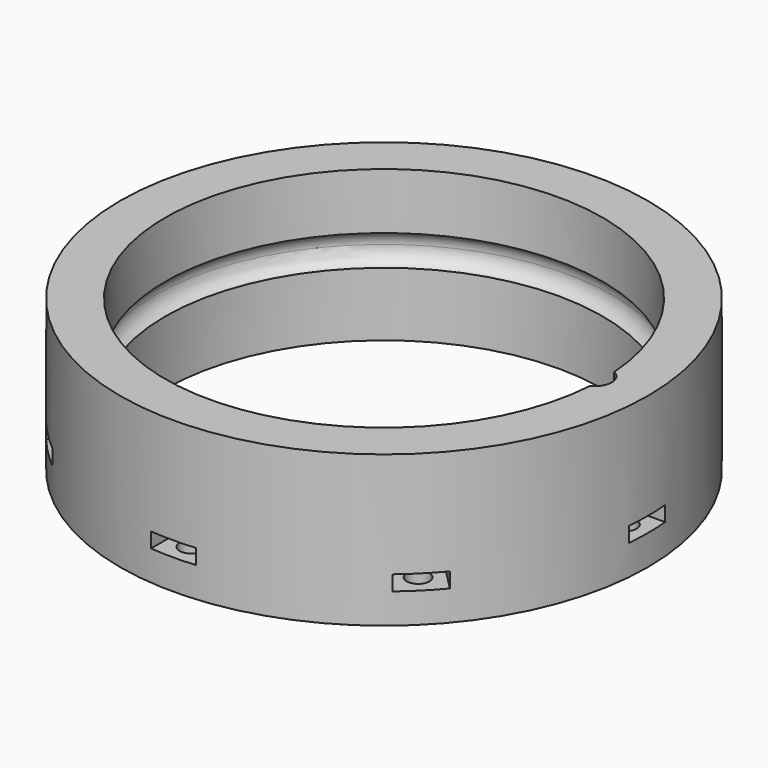
from build123d import *

# Parameters (mm, degrees)
BOX771_W                     = 6
BOX771_H                     = 6
BOX771_DEPTH                 = 2
BOX772_W                     = 6
BOX772_H                     = 6
BOX772_DEPTH                 = 2
BOX772_PLACEMENT_ANGLE       = 135
BOX769_W                     = 6
BOX769_H                     = 6
BOX769_DEPTH                 = 2
BOX767_W                     = 6
BOX767_H                     = 6
BOX767_DEPTH                 = 2
BOX767_PLACEMENT_ANGLE       = 225
BOX770_W                     = 6
BOX770_H                     = 6
BOX770_DEPTH                 = 2
BOX768_W                     = 6
BOX768_H                     = 6
BOX768_DEPTH                 = 2
BOX768_PLACEMENT_ANGLE       = 45
BOX773_W                     = 6
BOX773_H                     = 6
BOX773_DEPTH                 = 2
BOX765_W                     = 6
BOX765_H                     = 6
BOX765_DEPTH                 = 2
BOX765_PLACEMENT_ANGLE       = 45
CYLINDER1989_R               = 1.5
CYLINDER1989_DEPTH           = 10
CYLINDER1977_R               = 1.5
CYLINDER1977_DEPTH           = 10
CYLINDER1977_PLACEMENT_ANGLE = 135
CYLINDER1975_R               = 1.5
CYLINDER1975_DEPTH           = 10
CYLINDER1974_R               = 1.5
CYLINDER1974_DEPTH           = 10
CYLINDER1974_PLACEMENT_ANGLE = 225
CYLINDER1982_R               = 1.5
CYLINDER1982_DEPTH           = 10
CYLINDER1972_R               = 1.5
CYLINDER1972_DEPTH           = 10
CYLINDER1972_PLACEMENT_ANGLE = 45
CYLINDER1979_R               = 1.5
CYLINDER1979_DEPTH           = 10
CYLINDER1984_R               = 1.5
CYLINDER1984_DEPTH           = 10
CYLINDER1984_PLACEMENT_ANGLE = 45
CYLINDER1980_R               = 2.2
CYLINDER1980_DEPTH           = 10
TORUS004_R                   = 2.2
TUBE104_R                    = 35
TUBE104_R_2                  = 29
TUBE104_DEPTH                = 20


with BuildPart() as krychle771:
    # Box771 → Box771 (new body)
    with BuildSketch(Plane(origin=(-29, -3, 14), x_dir=(0, 1, 0), z_dir=(0, 0, 1))):
        with Locations((3, 3)):
            Rectangle(BOX771_W, BOX771_H)
    extrude(amount=BOX771_DEPTH)


with BuildPart() as krychle772:
    # Box772 → Box772 (new body)
    with BuildSketch(Plane.XY):
        with Locations((3, 3)):
            Rectangle(BOX772_W, BOX772_H)
    extrude(amount=BOX772_DEPTH)


with BuildPart() as krychle772_1:
    # Box772 placement: moved
    add(krychle772.part.moved(Location((-18.384776, -22.627417, 14))).rotate(Axis((-18.384776, -22.627417, 14), (0, 0, 1)), BOX772_PLACEMENT_ANGLE))


with BuildPart() as krychle769:
    # Box769 → Box769 (new body)
    with BuildSketch(Plane(origin=(3, -29, 14), x_dir=(-1, 0, 0), z_dir=(0, 0, 1))):
        with Locations((3, 3)):
            Rectangle(BOX769_W, BOX769_H)
    extrude(amount=BOX769_DEPTH)


with BuildPart() as krychle767:
    # Box767 → Box767 (new body)
    with BuildSketch(Plane.XY):
        with Locations((3, 3)):
            Rectangle(BOX767_W, BOX767_H)
    extrude(amount=BOX767_DEPTH)


with BuildPart() as krychle767_1:
    # Box767 placement: moved
    add(krychle767.part.moved(Location((22.627417, -18.384776, 14))).rotate(Axis((22.627417, -18.384776, 14), (0, 0, 1)), BOX767_PLACEMENT_ANGLE))


with BuildPart() as krychle770:
    # Box770 → Box770 (new body)
    with BuildSketch(Plane(origin=(29, 3, 14), x_dir=(0, -1, 0), z_dir=(0, 0, 1))):
        with Locations((3, 3)):
            Rectangle(BOX770_W, BOX770_H)
    extrude(amount=BOX770_DEPTH)


with BuildPart() as krychle768:
    # Box768 → Box768 (new body)
    with BuildSketch(Plane.XY):
        with Locations((3, 3)):
            Rectangle(BOX768_W, BOX768_H)
    extrude(amount=BOX768_DEPTH)


with BuildPart() as krychle768_1:
    # Box768 placement: moved
    add(krychle768.part.moved(Location((18.384776, 22.627417, 14))).rotate(Axis((18.384776, 22.627417, 14), (0, 0, -1)), BOX768_PLACEMENT_ANGLE))


with BuildPart() as krychle773:
    # Box773 → Box773 (new body)
    with BuildSketch(Plane(origin=(-3, 29, 14), x_dir=(1, 0, 0), z_dir=(0, 0, 1))):
        with Locations((3, 3)):
            Rectangle(BOX773_W, BOX773_H)
    extrude(amount=BOX773_DEPTH)


with BuildPart() as compound936:
    # Box765 → Box765 (new body)
    with BuildSketch(Plane.XY):
        with Locations((3, 3)):
            Rectangle(BOX765_W, BOX765_H)
    extrude(amount=BOX765_DEPTH)


with BuildPart() as compound936_1:
    # Box765 placement: moved
    add(compound936.part.moved(Location((-22.627417, 18.384776, 14))).rotate(Axis((-22.627417, 18.384776, 14), (0, 0, 1)), BOX765_PLACEMENT_ANGLE))

    # Compound936: union Krychle771, Krychle772, Krychle769, Krychle767, Krychle770, Krychle768, Krychle773
    add(krychle771.part)
    add(krychle772_1.part)
    add(krychle769.part)
    add(krychle767_1.part)
    add(krychle770.part)
    add(krychle768_1.part)
    add(krychle773.part)


with BuildPart() as obj1:
    # Cylinder1989 → Cylinder1989 (new body)
    with BuildSketch(Plane(origin=(-32, 0, 10), x_dir=(0, 1, 0), z_dir=(0, 0, 1))):
        Circle(CYLINDER1989_R)
    extrude(amount=CYLINDER1989_DEPTH)


with BuildPart() as obj2:
    # Cylinder1977 → Cylinder1977 (new body)
    with BuildSketch(Plane.XY):
        Circle(CYLINDER1977_R)
    extrude(amount=CYLINDER1977_DEPTH)


with BuildPart() as obj2_1:
    # Cylinder1977 placement: moved
    add(obj2.part.moved(Location((-22.627417, -22.627417, 10))).rotate(Axis((-22.627417, -22.627417, 10), (0, 0, 1)), CYLINDER1977_PLACEMENT_ANGLE))


with BuildPart() as obj3:
    # Cylinder1975 → Cylinder1975 (new body)
    with BuildSketch(Plane(origin=(0, -32, 10), x_dir=(-1, 0, 0), z_dir=(0, 0, 1))):
        Circle(CYLINDER1975_R)
    extrude(amount=CYLINDER1975_DEPTH)


with BuildPart() as obj4:
    # Cylinder1974 → Cylinder1974 (new body)
    with BuildSketch(Plane.XY):
        Circle(CYLINDER1974_R)
    extrude(amount=CYLINDER1974_DEPTH)


with BuildPart() as obj4_1:
    # Cylinder1974 placement: moved
    add(obj4.part.moved(Location((22.627417, -22.627417, 10))).rotate(Axis((22.627417, -22.627417, 10), (0, 0, 1)), CYLINDER1974_PLACEMENT_ANGLE))


with BuildPart() as obj5:
    # Cylinder1982 → Cylinder1982 (new body)
    with BuildSketch(Plane(origin=(32, 0, 10), x_dir=(0, -1, 0), z_dir=(0, 0, 1))):
        Circle(CYLINDER1982_R)
    extrude(amount=CYLINDER1982_DEPTH)


with BuildPart() as obj6:
    # Cylinder1972 → Cylinder1972 (new body)
    with BuildSketch(Plane.XY):
        Circle(CYLINDER1972_R)
    extrude(amount=CYLINDER1972_DEPTH)


with BuildPart() as obj6_1:
    # Cylinder1972 placement: moved
    add(obj6.part.moved(Location((22.627417, 22.627417, 10))).rotate(Axis((22.627417, 22.627417, 10), (0, 0, -1)), CYLINDER1972_PLACEMENT_ANGLE))


with BuildPart() as obj7:
    # Cylinder1979 → Cylinder1979 (new body)
    with BuildSketch(Plane(origin=(0, 32, 10), x_dir=(1, 0, 0), z_dir=(0, 0, 1))):
        Circle(CYLINDER1979_R)
    extrude(amount=CYLINDER1979_DEPTH)


with BuildPart() as compound938:
    # Cylinder1984 → Cylinder1984 (new body)
    with BuildSketch(Plane.XY):
        Circle(CYLINDER1984_R)
    extrude(amount=CYLINDER1984_DEPTH)


with BuildPart() as compound938_1:
    # Cylinder1984 placement: moved
    add(compound938.part.moved(Location((-22.627417, 22.627417, 10))).rotate(Axis((-22.627417, 22.627417, 10), (0, 0, 1)), CYLINDER1984_PLACEMENT_ANGLE))

    # Compound938: union obj1, obj2, obj3, obj4, obj5, obj6, obj7
    add(obj1.part)
    add(obj2_1.part)
    add(obj3.part)
    add(obj4_1.part)
    add(obj5.part)
    add(obj6_1.part)
    add(obj7.part)


with BuildPart() as compound938_2:
    # Compound938 placement: moved
    add(compound938_1.part.moved(Location((0, 0, -2))))


with BuildPart() as obj8:
    # Cylinder1980 → Cylinder1980 (new body)
    with BuildSketch(Plane(origin=(28, 0, 20.5), x_dir=(1, 0, 0), z_dir=(0, 0, 1))):
        Circle(CYLINDER1980_R)
    extrude(amount=CYLINDER1980_DEPTH)


with BuildPart() as obj9:
    # Torus004 → Torus004 (revolve)
    with BuildSketch(Plane(origin=(0, 0, 20.5), x_dir=(1, 0, 0), z_dir=(0, -1, 0))):
        with Locations((28.15, 0)):
            Circle(TORUS004_R)
    revolve(axis=Axis((0, 0, 20.5), (0, 0, 1)))


with BuildPart() as obj10:
    # Tube104 → Tube104 (new body)
    with BuildSketch(Plane.XY.offset(10)):
        Circle(TUBE104_R)
        Circle(TUBE104_R_2, mode=Mode.SUBTRACT)
    extrude(amount=TUBE104_DEPTH)

    # Cut598: cut obj9
    add(obj9.part, mode=Mode.SUBTRACT)

    # Cut599: cut obj8
    add(obj8.part, mode=Mode.SUBTRACT)

    # Cut597: cut Compound938
    add(compound938_2.part, mode=Mode.SUBTRACT)

    # Cut593: cut Compound936
    add(compound936_1.part, mode=Mode.SUBTRACT)


solid = obj10.part
